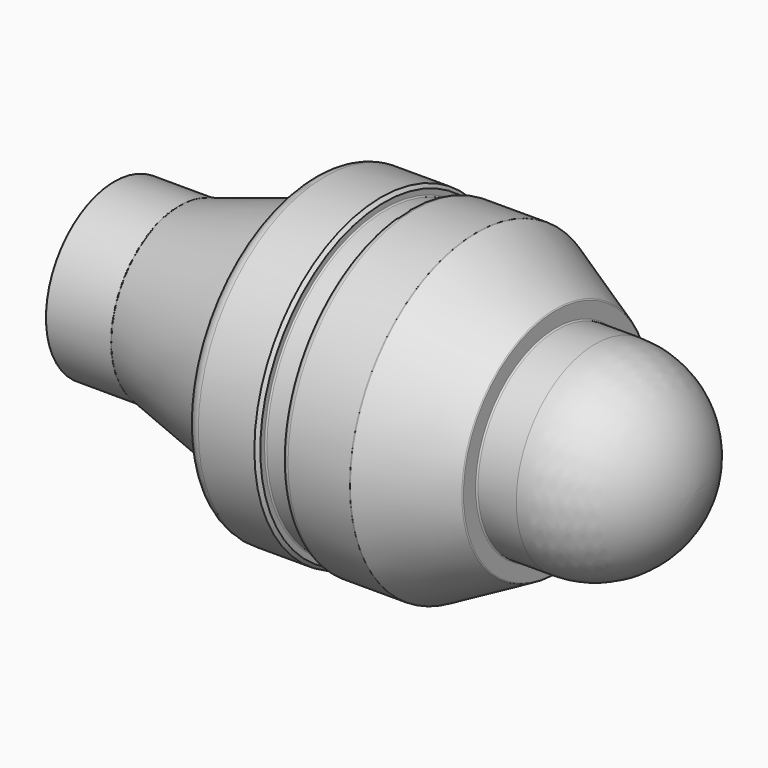
from build123d import *

# Parameters (mm, degrees)
F2_R    = 2
F3_R    = 1
F4_SIZE = 0.5
F5_R    = 0.2
F6_R    = 0.2


with BuildPart() as f1:
    # F0 (on Top) → F1 (revolve)
    with BuildSketch(Plane.XY):
        with BuildLine():
            Line((0, 0), (15, 0))
            ThreePointArc((15, 0), (10.606602, 10.606602), (0, 15))
            Line((0, 15), (-6, 15))
            Line((-6, 15), (-6, 17.619487))
            Line((-6, 17.619487), (-18, 24))
            Line((-18, 24), (-28.4, 24))
            Line((-28.4, 24), (-28.4, 22.5))
            Line((-28.4, 22.5), (-32, 22.5))
            Line((-32, 22.5), (-32, 24))
            Line((-32, 24), (-43, 24))
            Line((-43, 24), (-43, 19))
            Line((-43, 19), (-63, 13))
            Line((-63, 13), (-73, 13))
            Line((-73, 13), (-73, 0))
            Line((-73, 0), (0, 0))
        make_face()
    revolve(axis=Axis((-36.5, 0, 0), (1, 0, 0)))

    # F2
    f2_edges = [f1.edges().sort_by_distance(p)[0] for p in [
        (-43, -24, 0),
    ]]
    fillet(f2_edges, radius=F2_R)

    # F3
    f3_edges = [f1.edges().sort_by_distance(p)[0] for p in [
        (-28.4, -24, 0),
    ]]
    fillet(f3_edges, radius=F3_R)

    # F4
    f4_edges = [f1.edges().sort_by_distance(p)[0] for p in [
        (-32, -24, 0),
    ]]
    chamfer(f4_edges, length=F4_SIZE)

    # F5
    f5_edges = [f1.edges().sort_by_distance(p)[0] for p in [
        (-73, -13, 0),
        (-63, -13, 0),
        (-18, -24, 0),
        (-6, -17.619487, 0),
    ]]
    fillet(f5_edges, radius=F5_R)

    # F6
    f6_edges = [f1.edges().sort_by_distance(p)[0] for p in [
        (-6, -15, 0),
        (0, -15, 0),
        (-32, -22.5, 0),
        (-28.4, -22.5, 0),
        (-30.2, 22.5, 0),
        (-43, -19, 0),
    ]]
    fillet(f6_edges, radius=F6_R)


solid = f1.part
